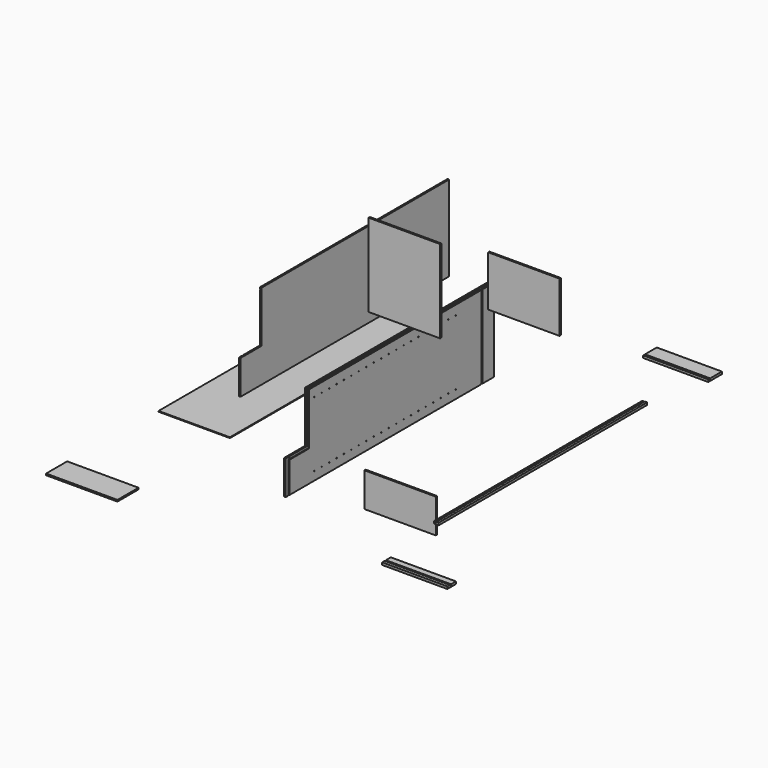
from build123d import *

# Parameters (mm, degrees)
F0_W      = 2133.6
F0_H      = 698.5
F1_DEPTH  = 12.7
F2_W      = 12.7
F2_H      = 6.35
F2_W_2    = 1962.15
F2_H_2    = 12.7
F2_W_3    = 120.65
F2_W_4    = 25.4
F2_H_3    = 679.45
F3_DEPTH  = 6.35
F4_R      = 3.175
F5_DEPTH  = 9.525
F6_W      = 2133.6
F6_H      = 698.5
F7_DEPTH  = 12.7
F8_W      = 12.7
F8_H      = 679.45
F8_H_2    = 12.7
F8_W_2    = 1962.15
F8_H_3    = 6.35
F8_W_3    = 25.4
F8_W_4    = 120.65
F9_DEPTH  = 6.35
F10_R     = 3.175
F11_DEPTH = 9.525
F12_W     = 584.2
F12_H     = 679.45
F13_DEPTH = 12.7
F14_W     = 584.2
F14_H     = 1917.7
F15_DEPTH = 6.35
F16_W     = 38.1
F16_H     = 2133.6
F17_DEPTH = 19.05
F16_W_2   = 533.4
F16_H_2   = 139.7
F16_H_3   = 88.9
F18_W     = 215.9
F18_H     = 419.1
F19_DEPTH = 12.7
F21_DEPTH = 6.35
F22_W     = 584.2
F22_H     = 412.75
F23_DEPTH = 12.7
F24_W     = 584.2
F24_H     = 215.9
F25_DEPTH = 12.7
F26_R     = 3.175
F27_DEPTH = 9.525
F28_W     = 215.9
F28_H     = 419.1
F29_DEPTH = 12.7
F31_DEPTH = 6.35
F32_W     = 584.2
F32_H     = 279.4
F33_DEPTH = 12.7
F34_W     = 12.7
F34_H     = 2133.6
F35_DEPTH = 6.35
F36_W     = 533.4
F36_H     = 12.7
F37_DEPTH = 6.35
F38_W     = 533.4
F38_H     = 12.7
F39_DEPTH = 6.35


with BuildPart() as f1:
    # F0 (on Right) → F1 (new body)
    with BuildSketch(Plane.YZ):
        with Locations((446.4172559871, 2.4358797818)):
            Rectangle(F0_W, F0_H)
    extrude(amount=F1_DEPTH)

    # F2 (on face) → F3 (cut)
    with BuildSketch(Plane.YZ.offset(12.7)):
        with Locations((-588.6327440129, 335.8108797818)):
            Rectangle(F2_W, F2_H)
        with Locations((398.7922559871, 335.8108797818)):
            Rectangle(F2_W_2, F2_H)
        with Locations((1386.2172559871, 335.8108797818)):
            Rectangle(F2_W, F2_H)
        with Locations((1386.2172559871, 345.3358797818)):
            Rectangle(F2_W, F2_H_2)
        with Locations((1452.8922559871, 335.8108797818)):
            Rectangle(F2_W_3, F2_H)
        with Locations((-588.6327440129, 345.3358797818)):
            Rectangle(F2_W, F2_H_2)
        with Locations((-607.6827440129, 335.8108797818)):
            Rectangle(F2_W_4, F2_H)
        with Locations((-588.6327440129, -7.0891202182)):
            Rectangle(F2_W, F2_H_3)
        with Locations((1386.2172559871, -7.0891202182)):
            Rectangle(F2_W, F2_H_3)
    extrude(amount=-F3_DEPTH, mode=Mode.SUBTRACT)

    # F4 (on face) → F5 (cut)
    with BuildSketch(Plane.YZ.offset(12.7)):
        with Locations((-328.2827440129, 415.1858797818)):
            Circle(F4_R)
        with Locations((-328.2827440129, 948.5858797818)):
            Circle(F4_R)
        with Locations((-252.0827440129, 415.1858797818)):
            Circle(F4_R)
        with Locations((-252.0827440129, 948.5858797818)):
            Circle(F4_R)
        with Locations((-175.8827440129, 415.1858797818)):
            Circle(F4_R)
        with Locations((-175.8827440129, 948.5858797818)):
            Circle(F4_R)
        with Locations((-99.6827440129, 415.1858797818)):
            Circle(F4_R)
        with Locations((-99.6827440129, 948.5858797818)):
            Circle(F4_R)
        with Locations((-23.4827440129, 415.1858797818)):
            Circle(F4_R)
        with Locations((-23.4827440129, 948.5858797818)):
            Circle(F4_R)
        with Locations((52.7172559871, 415.1858797818)):
            Circle(F4_R)
        with Locations((52.7172559871, 948.5858797818)):
            Circle(F4_R)
        with Locations((128.9172559871, 415.1858797818)):
            Circle(F4_R)
        with Locations((128.9172559871, 948.5858797818)):
            Circle(F4_R)
        with Locations((205.1172559871, 415.1858797818)):
            Circle(F4_R)
        with Locations((205.1172559871, 948.5858797818)):
            Circle(F4_R)
        with Locations((281.3172559871, 415.1858797818)):
            Circle(F4_R)
        with Locations((281.3172559871, 948.5858797818)):
            Circle(F4_R)
        with Locations((357.5172559871, 415.1858797818)):
            Circle(F4_R)
        with Locations((357.5172559871, 948.5858797818)):
            Circle(F4_R)
        with Locations((433.7172559871, 415.1858797818)):
            Circle(F4_R)
        with Locations((433.7172559871, 948.5858797818)):
            Circle(F4_R)
        with Locations((509.9172559871, 415.1858797818)):
            Circle(F4_R)
        with Locations((509.9172559871, 948.5858797818)):
            Circle(F4_R)
        with Locations((586.1172559871, 415.1858797818)):
            Circle(F4_R)
        with Locations((586.1172559871, 948.5858797818)):
            Circle(F4_R)
        with Locations((662.3172559871, 415.1858797818)):
            Circle(F4_R)
        with Locations((662.3172559871, 948.5858797818)):
            Circle(F4_R)
        with Locations((738.5172559871, 415.1858797818)):
            Circle(F4_R)
        with Locations((738.5172559871, 948.5858797818)):
            Circle(F4_R)
        with Locations((814.7172559871, 415.1858797818)):
            Circle(F4_R)
        with Locations((814.7172559871, 948.5858797818)):
            Circle(F4_R)
        with Locations((890.9172559871, 415.1858797818)):
            Circle(F4_R)
        with Locations((890.9172559871, 948.5858797818)):
            Circle(F4_R)
        with Locations((967.1172559871, 415.1858797818)):
            Circle(F4_R)
        with Locations((967.1172559871, 948.5858797818)):
            Circle(F4_R)
        with Locations((1043.3172559871, 415.1858797818)):
            Circle(F4_R)
        with Locations((1043.3172559871, 948.5858797818)):
            Circle(F4_R)
        with Locations((1119.5172559871, 415.1858797818)):
            Circle(F4_R)
        with Locations((1119.5172559871, 948.5858797818)):
            Circle(F4_R)
    extrude(amount=-F5_DEPTH, mode=Mode.SUBTRACT)

    # F26 (on face) → F27 (cut)
    with BuildSketch(Plane.YZ.offset(12.7)):
        with Locations((-328.2827440129, 256.4358797818)):
            Circle(F26_R)
        with Locations((-328.2827440129, -276.9641202182)):
            Circle(F26_R)
        with Locations((-252.0827440129, 256.4358797818)):
            Circle(F26_R)
        with Locations((-252.0827440129, -276.9641202182)):
            Circle(F26_R)
        with Locations((-175.8827440129, 256.4358797818)):
            Circle(F26_R)
        with Locations((-175.8827440129, -276.9641202182)):
            Circle(F26_R)
        with Locations((-99.6827440129, 256.4358797818)):
            Circle(F26_R)
        with Locations((-99.6827440129, -276.9641202182)):
            Circle(F26_R)
        with Locations((-23.4827440129, 256.4358797818)):
            Circle(F26_R)
        with Locations((-23.4827440129, -276.9641202182)):
            Circle(F26_R)
        with Locations((52.7172559871, 256.4358797818)):
            Circle(F26_R)
        with Locations((52.7172559871, -276.9641202182)):
            Circle(F26_R)
        with Locations((128.9172559871, 256.4358797818)):
            Circle(F26_R)
        with Locations((128.9172559871, -276.9641202182)):
            Circle(F26_R)
        with Locations((205.1172559871, 256.4358797818)):
            Circle(F26_R)
        with Locations((205.1172559871, -276.9641202182)):
            Circle(F26_R)
        with Locations((281.3172559871, 256.4358797818)):
            Circle(F26_R)
        with Locations((281.3172559871, -276.9641202182)):
            Circle(F26_R)
        with Locations((357.5172559871, 256.4358797818)):
            Circle(F26_R)
        with Locations((357.5172559871, -276.9641202182)):
            Circle(F26_R)
        with Locations((433.7172559871, 256.4358797818)):
            Circle(F26_R)
        with Locations((433.7172559871, -276.9641202182)):
            Circle(F26_R)
        with Locations((509.9172559871, 256.4358797818)):
            Circle(F26_R)
        with Locations((509.9172559871, -276.9641202182)):
            Circle(F26_R)
        with Locations((586.1172559871, 256.4358797818)):
            Circle(F26_R)
        with Locations((586.1172559871, -276.9641202182)):
            Circle(F26_R)
        with Locations((662.3172559871, 256.4358797818)):
            Circle(F26_R)
        with Locations((662.3172559871, -276.9641202182)):
            Circle(F26_R)
        with Locations((738.5172559871, 256.4358797818)):
            Circle(F26_R)
        with Locations((738.5172559871, -276.9641202182)):
            Circle(F26_R)
        with Locations((814.7172559871, 256.4358797818)):
            Circle(F26_R)
        with Locations((814.7172559871, -276.9641202182)):
            Circle(F26_R)
        with Locations((890.9172559871, 256.4358797818)):
            Circle(F26_R)
        with Locations((890.9172559871, -276.9641202182)):
            Circle(F26_R)
        with Locations((967.1172559871, 256.4358797818)):
            Circle(F26_R)
        with Locations((967.1172559871, -276.9641202182)):
            Circle(F26_R)
        with Locations((1043.3172559871, 256.4358797818)):
            Circle(F26_R)
        with Locations((1043.3172559871, -276.9641202182)):
            Circle(F26_R)
        with Locations((1119.5172559871, 256.4358797818)):
            Circle(F26_R)
        with Locations((1119.5172559871, -276.9641202182)):
            Circle(F26_R)
    extrude(amount=-F27_DEPTH, mode=Mode.SUBTRACT)

    # F28 (on face) → F29 (cut)
    with BuildSketch(Plane.YZ.offset(12.7)):
        with Locations((-512.4327440129, 142.1358797818)):
            Rectangle(F28_W, F28_H)
    extrude(amount=-F29_DEPTH, mode=Mode.SUBTRACT)

    # F30 (on face) → F31 (cut)
    with BuildSketch(Plane.YZ.offset(12.7)):
        Polygon((-391.7827440129, -80.1141202182), (-582.2827440129, -80.1141202182), (-582.2827440129, -92.8141202182), (-379.0827440129, -92.8141202182), (-379.0827440129, 332.6358797818), (-391.7827440129, 332.6358797818), align=None)
    extrude(amount=-F31_DEPTH, mode=Mode.SUBTRACT)


with BuildPart() as f7:
    # F6 (on face) → F7 (new body)
    with BuildSketch(Plane(origin=(0, 0, 0), x_dir=(0, -1, 0), z_dir=(-1, 0, 0))):
        with Locations((-0.823061551, 903.4617841244)):
            Rectangle(F6_W, F6_H)
    extrude(amount=F7_DEPTH)

    # F8 (on face) → F9 (cut)
    with BuildSketch(Plane(origin=(-12.7, 0, 0), x_dir=(0, -1, 0), z_dir=(-1, 0, 0))):
        with Locations((1034.226938449, 893.9367841244)):
            Rectangle(F8_W, F8_H)
        with Locations((1034.226938449, 1246.3617841244)):
            Rectangle(F8_W, F8_H_2)
        with Locations((46.801938449, 1236.8367841244)):
            Rectangle(F8_W_2, F8_H_3)
        with Locations((1053.276938449, 1236.8367841244)):
            Rectangle(F8_W_3, F8_H_3)
        with Locations((-940.623061551, 1246.3617841244)):
            Rectangle(F8_W, F8_H_2)
        with Locations((-940.623061551, 893.9367841244)):
            Rectangle(F8_W, F8_H)
        with Locations((-1007.298061551, 1236.8367841244)):
            Rectangle(F8_W_4, F8_H_3)
        with Locations((-940.623061551, 1236.8367841244)):
            Rectangle(F8_W, F8_H_3)
        with Locations((1034.226938449, 1236.8367841244)):
            Rectangle(F8_W, F8_H_3)
    extrude(amount=-F9_DEPTH, mode=Mode.SUBTRACT)

    # F10 (on face) → F11 (cut)
    with BuildSketch(Plane(origin=(-12.7, 0, 0), x_dir=(0, -1, 0), z_dir=(-1, 0, 0))):
        with Locations((773.876938449, 1157.4617841244)):
            Circle(F10_R)
        with Locations((773.876938449, 624.0617841244)):
            Circle(F10_R)
        with Locations((697.676938449, 1157.4617841244)):
            Circle(F10_R)
        with Locations((697.676938449, 624.0617841244)):
            Circle(F10_R)
        with Locations((621.476938449, 1157.4617841244)):
            Circle(F10_R)
        with Locations((621.476938449, 624.0617841244)):
            Circle(F10_R)
        with Locations((545.276938449, 1157.4617841244)):
            Circle(F10_R)
        with Locations((545.276938449, 624.0617841244)):
            Circle(F10_R)
        with Locations((469.076938449, 1157.4617841244)):
            Circle(F10_R)
        with Locations((469.076938449, 624.0617841244)):
            Circle(F10_R)
        with Locations((392.876938449, 1157.4617841244)):
            Circle(F10_R)
        with Locations((392.876938449, 624.0617841244)):
            Circle(F10_R)
        with Locations((316.676938449, 1157.4617841244)):
            Circle(F10_R)
        with Locations((316.676938449, 624.0617841244)):
            Circle(F10_R)
        with Locations((240.476938449, 1157.4617841244)):
            Circle(F10_R)
        with Locations((240.476938449, 624.0617841244)):
            Circle(F10_R)
        with Locations((164.276938449, 1157.4617841244)):
            Circle(F10_R)
        with Locations((164.276938449, 624.0617841244)):
            Circle(F10_R)
        with Locations((88.076938449, 1157.4617841244)):
            Circle(F10_R)
        with Locations((88.076938449, 624.0617841244)):
            Circle(F10_R)
        with Locations((11.876938449, 1157.4617841244)):
            Circle(F10_R)
        with Locations((11.876938449, 624.0617841244)):
            Circle(F10_R)
        with Locations((-64.323061551, 1157.4617841244)):
            Circle(F10_R)
        with Locations((-64.323061551, 624.0617841244)):
            Circle(F10_R)
        with Locations((-140.523061551, 1157.4617841244)):
            Circle(F10_R)
        with Locations((-140.523061551, 624.0617841244)):
            Circle(F10_R)
        with Locations((-216.723061551, 1157.4617841244)):
            Circle(F10_R)
        with Locations((-216.723061551, 624.0617841244)):
            Circle(F10_R)
        with Locations((-292.923061551, 1157.4617841244)):
            Circle(F10_R)
        with Locations((-292.923061551, 624.0617841244)):
            Circle(F10_R)
        with Locations((-369.123061551, 1157.4617841244)):
            Circle(F10_R)
        with Locations((-369.123061551, 624.0617841244)):
            Circle(F10_R)
        with Locations((-445.323061551, 1157.4617841244)):
            Circle(F10_R)
        with Locations((-445.323061551, 624.0617841244)):
            Circle(F10_R)
        with Locations((-521.523061551, 1157.4617841244)):
            Circle(F10_R)
        with Locations((-521.523061551, 624.0617841244)):
            Circle(F10_R)
        with Locations((-597.723061551, 1157.4617841244)):
            Circle(F10_R)
        with Locations((-597.723061551, 624.0617841244)):
            Circle(F10_R)
        with Locations((-673.923061551, 1157.4617841244)):
            Circle(F10_R)
        with Locations((-673.923061551, 624.0617841244)):
            Circle(F10_R)
    extrude(amount=-F11_DEPTH, mode=Mode.SUBTRACT)

    # F18 (on face) → F19 (cut)
    with BuildSketch(Plane(origin=(-12.7, 0, 0), x_dir=(0, -1, 0), z_dir=(-1, 0, 0))):
        with Locations((958.026938449, 1043.1617841244)):
            Rectangle(F18_W, F18_H)
    extrude(amount=-F19_DEPTH, mode=Mode.SUBTRACT)

    # F20 (on face) → F21 (cut)
    with BuildSketch(Plane(origin=(-12.7, 0, 0), x_dir=(0, -1, 0), z_dir=(-1, 0, 0))):
        Polygon((837.376938449, 820.9117841244), (837.376938449, 1233.6617841244), (824.676938449, 1233.6617841244), (824.676938449, 808.2117841244), (1027.876938449, 808.2117841244), (1027.876938449, 820.9117841244), align=None)
    extrude(amount=-F21_DEPTH, mode=Mode.SUBTRACT)


with BuildPart() as f13:
    # F12 (on Front) → F13 (new body)
    with BuildSketch(Plane.XZ):
        with Locations((498.5403120518, 1143.7811116528)):
            Rectangle(F12_W, F12_H)
    extrude(amount=F13_DEPTH)


with BuildPart() as f15:
    # F14 (on Top) → F15 (new body)
    with BuildSketch(Plane.XY):
        with Locations((-652.4719446898, 234.3365700692)):
            Rectangle(F14_W, F14_H)
    extrude(amount=F15_DEPTH)


with BuildPart() as f17:
    # F16 (on Top) → F17 (new body)
    with BuildSketch(Plane.XY):
        with Locations((1417.2201802422, 232.9474685069)):
            Rectangle(F16_W, F16_H)
    extrude(amount=F17_DEPTH)

    # F34 (on face) → F35 (cut)
    with BuildSketch(Plane.XY.offset(19.05)):
        with Locations((1410.8701014687, 232.9474685069)):
            Rectangle(F34_W, F34_H)
    extrude(amount=-F35_DEPTH, mode=Mode.SUBTRACT)


with BuildPart() as f17b:
    # F16 (on Top) → F17, piece 2 (new body)
    with BuildSketch(Plane.XY):
        with Locations((1275.9314770058, 1862.0100506283)):
            Rectangle(F16_W_2, F16_H_2)
    extrude(amount=F17_DEPTH)

    # F38 (on face) → F39 (cut)
    with BuildSketch(Plane.XY.offset(19.05)):
        with Locations((1275.9314770058, 1804.8600506283)):
            Rectangle(F38_W, F38_H)
    extrude(amount=-F39_DEPTH, mode=Mode.SUBTRACT)


with BuildPart() as f17c:
    # F16 (on Top) → F17, piece 3 (new body)
    with BuildSketch(Plane.XY):
        with Locations((1763.4119454247, -1443.4792243232)):
            Rectangle(F16_W_2, F16_H_3)
    extrude(amount=F17_DEPTH)

    # F36 (on face) → F37 (cut)
    with BuildSketch(Plane.XY.offset(19.05)):
        with Locations((1763.4119454247, -1456.1792243232)):
            Rectangle(F36_W, F36_H)
    extrude(amount=-F37_DEPTH, mode=Mode.SUBTRACT)


with BuildPart() as f23:
    # F22 (on Front) → F23 (new body)
    with BuildSketch(Plane.XZ):
        with Locations((1476.558297251, 1346.1231589317)):
            Rectangle(F22_W, F22_H)
    extrude(amount=F23_DEPTH)


with BuildPart() as f25:
    # F24 (on Top) → F25 (new body)
    with BuildSketch(Plane.XY):
        with Locations((-664.8282212158, -1752.4256706238)):
            Rectangle(F24_W, F24_H)
    extrude(amount=F25_DEPTH)


with BuildPart() as f33:
    # F32 (on Front) → F33 (new body)
    with BuildSketch(Plane.XZ):
        with Locations((463.2279425859, -488.0696732962)):
            Rectangle(F32_W, F32_H)
    extrude(amount=F33_DEPTH)


solid = Compound([f1.part, f7.part, f13.part, f15.part, f17.part, f17b.part, f17c.part, f23.part, f25.part, f33.part])
